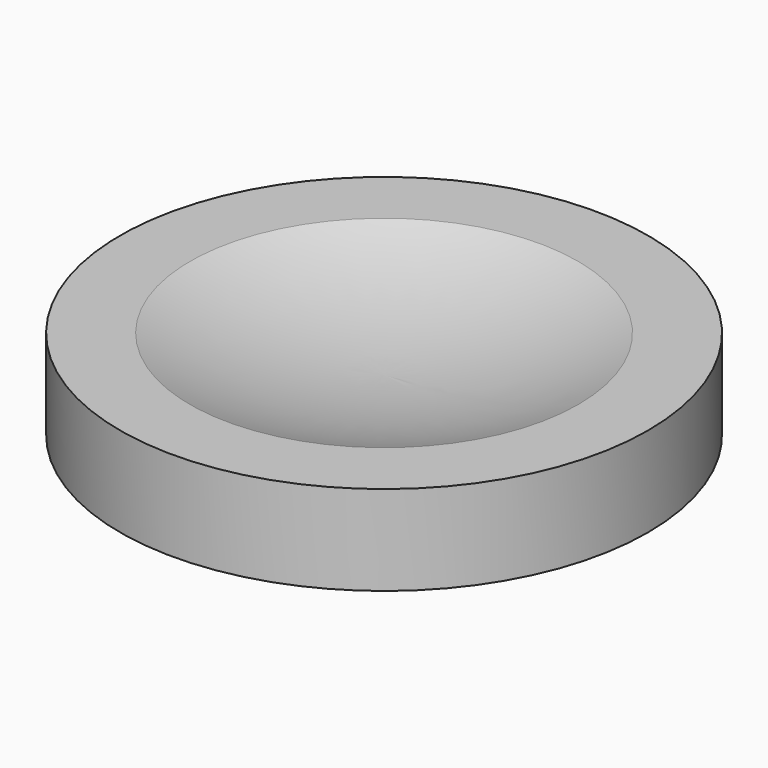
from build123d import *


with BuildPart() as f1:
    # F0 (on Front) → F1 (revolve)
    with BuildSketch(Plane.XZ):
        with BuildLine():
            ThreePointArc((23.340029, 0), (11.879762, -3.323853), (0, -4.445))
            Line((0, -4.445), (0, -6.985))
            Line((0, -6.985), (2.0625, -6.985))
            Line((2.0625, -6.985), (2.0625, -13.335))
            Line((2.0625, -13.335), (4.6025, -13.335))
            Line((4.6025, -13.335), (4.6025, -6.824425))
            ThreePointArc((4.6025, -6.824425), (14.371233, -5.402344), (23.818849, -2.54))
            Line((23.818849, -2.54), (29.21, -2.54))
            Line((29.21, -2.54), (29.21, -10.795))
            Line((29.21, -10.795), (31.75, -10.795))
            Line((31.75, -10.795), (31.75, 0))
            Line((31.75, 0), (23.340029, 0))
        make_face()
    revolve(axis=Axis((0, 0, -5.715), (0, 0, -1)))


solid = f1.part
